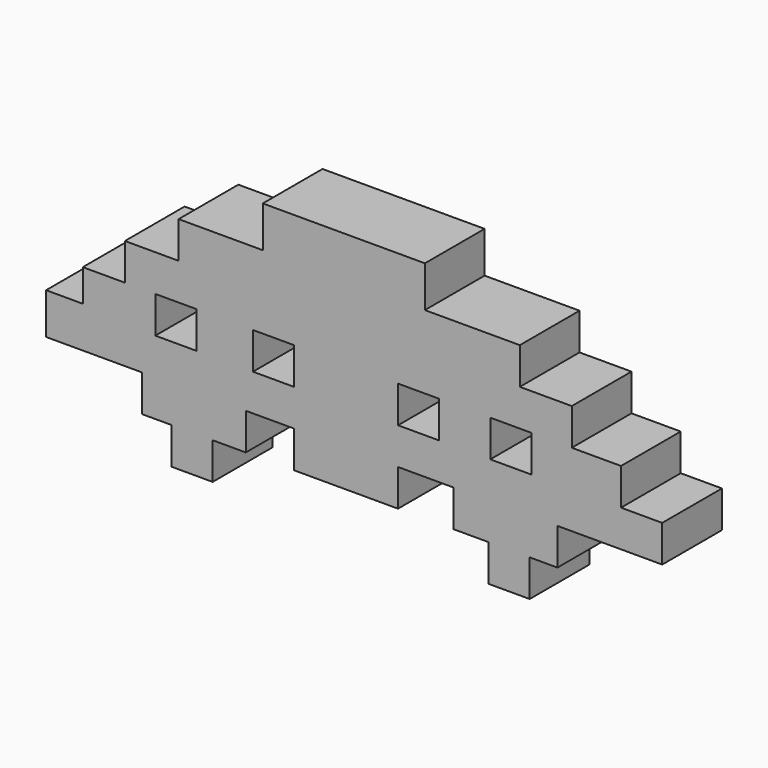
from build123d import *

# Parameters (mm, degrees)
F0_W     = 14.0208
F0_H     = 12.4968
F0_W_2   = 35.3568
F1_DEPTH = 25.4


with BuildPart() as f1:
    # F0 (on Front) → F1 (new body)
    with BuildSketch(Plane.XZ):
        Polygon((31.089604, 39.014402), (-24.079204, 39.014402), (-24.079204, 24.993601), (-52.730404, 24.993601), (-52.730404, 12.4968), (-71.018406, 12.4968), (-71.018406, 0), (-85.344001, 0), (-85.344001, -10.9728), (-97.840801, -10.9728), (-97.840801, -24.9936), (-85.344001, -24.9936), (-65.227203, -24.9936), (-29.870403, -24.9936), (-13.411203, -24.9936), (21.945597, -24.9936), (40.843204, -24.9936), (76.200004, -24.9936), (97.840795, -24.9936), (111.861595, -24.9936), (111.861595, -12.4968), (97.840795, -12.4968), (97.840795, 0), (81.076803, 0), (81.076803, 12.496801), (63.398402, 12.496801), (63.398402, 24.993601), (31.089604, 24.993601), align=None)
        with Locations((-53.644803, -6.2484)):
            Rectangle(F0_W, F0_H, mode=Mode.SUBTRACT)
        with Locations((-20.421601, -6.2484)):
            Rectangle(F0_W, F0_H, mode=Mode.SUBTRACT)
        with Locations((28.955997, -6.2484)):
            Rectangle(F0_W, F0_H, mode=Mode.SUBTRACT)
        with Locations((60.350399, -6.2484)):
            Rectangle(F0_W, F0_H, mode=Mode.SUBTRACT)
        Polygon((76.200004, -37.4904), (76.200004, -24.9936), (40.843204, -24.9936), (40.843204, -37.4904), (52.7304, -37.4904), (66.7512, -37.4904), align=None)
        Polygon((-29.870403, -24.9936), (-65.227203, -24.9936), (-65.227203, -37.4904), (-55.1688, -37.4904), (-41.148, -37.4904), (-29.870403, -37.4904), align=None)
        with Locations((-48.1584, -43.7388)):
            Rectangle(F0_W, F0_H)
        with Locations((4.267197, -31.242)):
            Rectangle(F0_W_2, F0_H)
        with Locations((59.7408, -43.7388)):
            Rectangle(F0_W, F0_H)
    extrude(amount=F1_DEPTH)


solid = f1.part
